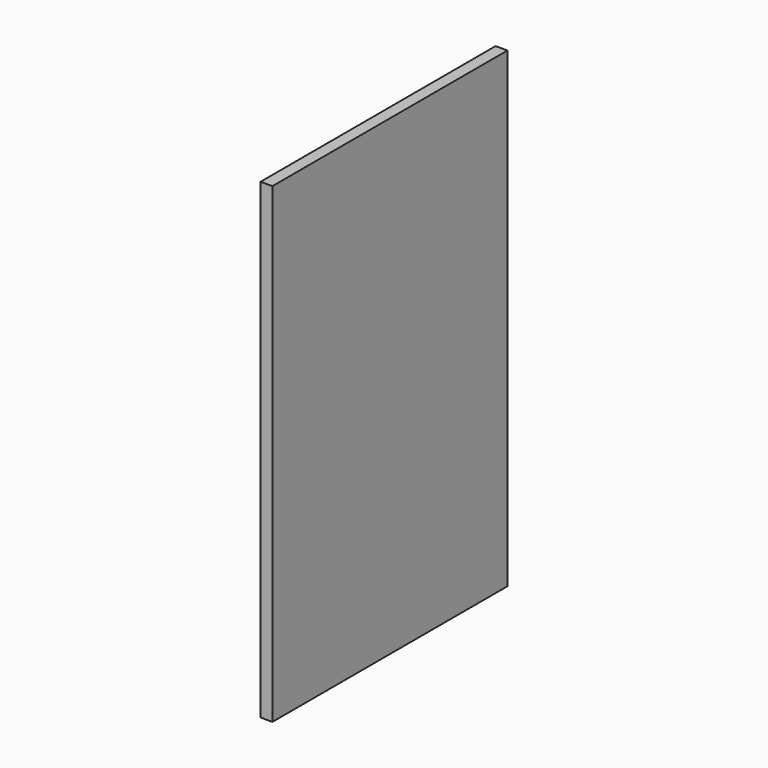
from build123d import *

# Parameters (mm, degrees)
F0_W     = 47.0984280109
F0_H     = 38.5305583477
F1_DEPTH = 18
F2_DEPTH = 446
F3_DEPTH = 716


with BuildPart() as f1:
    # F0 (on Right) → F1 (new body)
    with BuildSketch(Plane.YZ):
        with Locations((-23.5492140055, 19.2652791739)):
            Rectangle(F0_W, F0_H)
    extrude(amount=-F1_DEPTH)

    # F2 (add): a face of the model
    f2_faces = [f1.faces().sort_by_distance(p)[0] for p in [
        (-9, 0, 19.2652791739),
    ]]
    extrude(f2_faces, amount=-F2_DEPTH)

    # F3 (add): a face of the model
    f3_faces = [f1.faces().sort_by_distance(p)[0] for p in [
        (-9, -223, 0),
    ]]
    extrude(f3_faces, amount=-F3_DEPTH)


solid = f1.part
